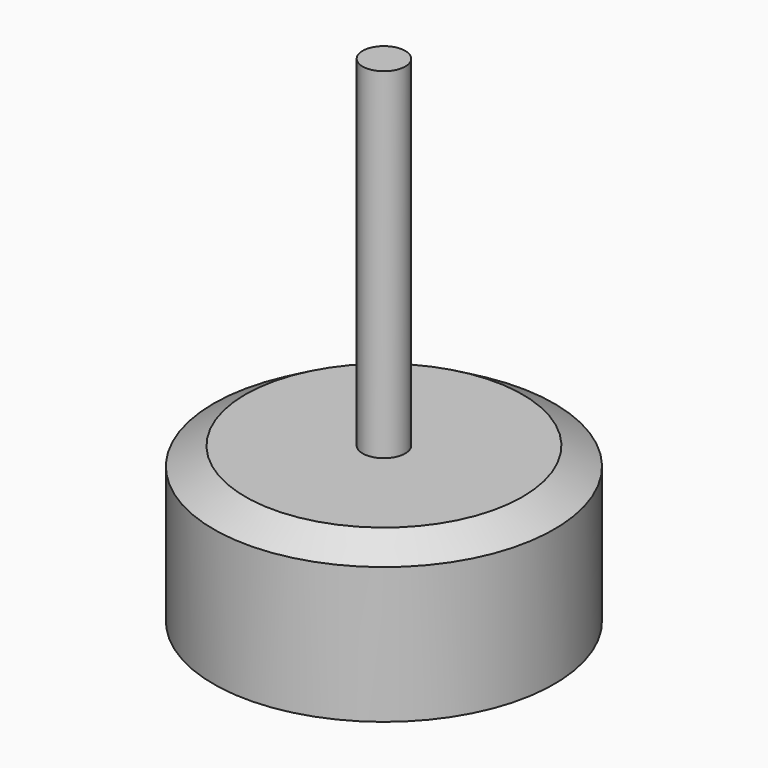
from build123d import *

# Parameters (mm, degrees)
F0_W   = 1.25
F0_H   = 20
F0_H_2 = 3
F0_H_3 = 1.0746234533


with BuildPart() as f1:
    # F0 (on Front) → F1 (revolve)
    with BuildSketch(Plane.XZ):
        with Locations((-21.1763077103, 19.0746234533)):
            Rectangle(F0_W, F0_H)
        Polygon((-21.8013077103, 8), (-30.5513077103, 8), (-30.5513077103, 0), (-21.8013077103, 0), (-21.8013077103, 5), align=None)
        Polygon((-28.6900052902, 9.0746234533), (-30.5513077103, 8), (-21.8013077103, 8), (-21.8013077103, 9.0746234533), align=None)
        with Locations((-21.1763077103, 6.5)):
            Rectangle(F0_W, F0_H_2)
        with Locations((-21.1763077103, 8.5373117267)):
            Rectangle(F0_W, F0_H_3)
    revolve(axis=Axis((-20.5513077103, 0, 19.0746234533), (0, 0, 1)))


solid = f1.part
